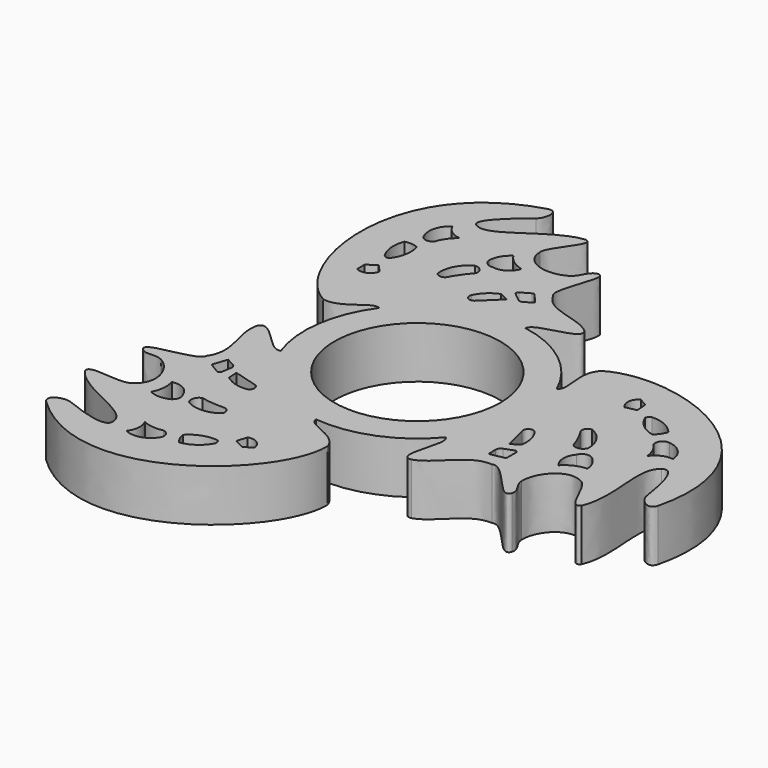
from build123d import *

# Parameters (mm, degrees)
F0_R     = 11.25
F1_DEPTH = 7
F2_COUNT = 3


with BuildPart() as f1:
    # F0 (on Top) → F1 (new body)
    with BuildSketch(Plane.XY):
        with BuildLine():
            ThreePointArc((-11.5915191693, -81.8411684137), (-4.9653695492, -76.6720738607), (3.3929452766, -75.7980197668))
            add(Edge.make_bspline(
                [(8.607827127, -72.3568797112), (10.1731130853, -74.2390751839), (3.4919257741, -74.1648375988), (3.3929452766, -75.7980197668)],
                knots=[0, 0, 0, 0, 6.2479146598, 6.2479146598, 6.2479146598, 6.2479146598], degree=3))
            add(Edge.make_bspline(
                [(1.075717737, -68.2296082377), (2.5268653408, -71.1459293962), (6.3623622991, -70.4283192754), (8.607827127, -72.3568797112)],
                knots=[0, 0, 0, 0, 8.5887741662, 8.5887741662, 8.5887741662, 8.5887741662], degree=3))
            add(Edge.make_bspline(
                [(1.4806623803, -61.3163821399), (3.592874622, -60.8460567892), (-0.3090519167, -67.2556757927), (1.075717737, -68.2296082377)],
                knots=[0, 0, 0, 0, 6.9250758295, 6.9250758295, 6.9250758295, 6.9250758295], degree=3))
            add(Edge.make_bspline(
                [(-0.4505755496, -63.5267719626), (0.5139255663, -62.9156604409), (0.4783272452, -61.6159439087), (1.4806623803, -61.3163821399)],
                knots=[0, 0, 0, 0, 2.935217728, 2.935217728, 2.935217728, 2.935217728], degree=3))
            add(Edge.make_bspline(
                [(-6.2984665856, -61.2256452441), (-6.2529034913, -64.0682913363), (-2.635971643, -64.8614987731), (-0.4505755496, -63.5267719626)],
                knots=[0, 0, 0, 0, 6.2843467237, 6.2843467237, 6.2843467237, 6.2843467237], degree=3))
            add(Edge.make_bspline(
                [(-4.2960937135, -55.9780411422), (-2.5442664046, -56.235473603), (-6.4609842375, -59.7193948925), (-6.2984665856, -61.2256452441)],
                knots=[0, 0, 0, 0, 5.6166578967, 5.6166578967, 5.6166578967, 5.6166578967], degree=3))
            add(Edge.make_bspline(
                [(-15.2463112026, -60.7007145882), (-12.8319403157, -61.9483627379), (-8.47457489, -56.3811324537), (-4.2960937135, -55.9780411422)],
                knots=[0, 0, 0, 0, 11.925221488, 11.925221488, 11.925221488, 11.925221488], degree=3))
            add(Edge.make_bspline(
                [(-11.4679643884, -55.4802492261), (-13.2644530386, -56.8716414273), (-17.0009694993, -60.0266456604), (-15.2463112026, -60.7007145882)],
                knots=[0, 0, 0, 0, 6.4443124726, 6.4443124726, 6.4443124726, 6.4443124726], degree=3))
            add(Edge.make_bspline(
                [(-11.8042081594, -52.9696643353), (-10.3074098006, -52.6897162199), (-10.7033317909, -54.8177957535), (-11.4679643884, -55.4802492261)],
                knots=[0, 0, 0, 0, 2.5330014543, 2.5330014543, 2.5330014543, 2.5330014543], degree=3))
            add(Edge.make_bspline(
                [(-17.5324920565, -83.9646458626), (-25.2240262926, -79.6045064926), (-29.2053744197, -58.0254420638), (-11.8042081594, -52.9696643353)],
                knots=[0, 0, 0, 0, 31.5198685956, 31.5198685956, 31.5198685956, 31.5198685956], degree=3))
            add(Edge.make_bspline(
                [(-11.5915191693, -81.8411684137), (-12.9225384444, -81.1213776469), (-14.913212508, -84.629714489), (-17.5324920565, -83.9646458626)],
                knots=[0, 0, 0, 0, 6.3090661212, 6.3090661212, 6.3090661212, 6.3090661212], degree=3))
        make_face()
        with BuildLine():
            ThreePointArc((-16.770971939, -75.310729444), (-17.6281934132, -76.3875004487), (-19.0040059388, -76.3500258327))
            Line((-19.0040059388, -76.3500258327), (-19.0040059388, -75.0509053469))
            Line((-19.0040059388, -75.0509053469), (-17.7731495351, -74.2219388485))
            Line((-17.7731495351, -74.2219388485), (-16.770971939, -75.310729444))
        make_face(mode=Mode.SUBTRACT)
        with BuildLine():
            ThreePointArc((-17.2145087272, -68.4527680278), (-17.0972083874, -70.4497265983), (-17.9011765867, -72.2814574838))
            ThreePointArc((-17.9011765867, -72.2814574838), (-18.3009233492, -72.3116232623), (-18.6502691358, -72.1149891615))
            ThreePointArc((-18.6502691358, -72.1149891615), (-19.2785622845, -70.2529847207), (-19.0040059388, -68.3071091771))
            ThreePointArc((-19.0040059388, -68.3071091771), (-18.0979216793, -68.2406740087), (-17.2145087272, -68.4527680278))
        make_face(mode=Mode.SUBTRACT)
        with BuildLine():
            ThreePointArc((-11.7061827332, -71.8075484037), (-11.3185383943, -69.5803265663), (-9.7345672548, -67.9673105478))
            ThreePointArc((-9.7345672548, -67.9673105478), (-8.8312017196, -68.2854486549), (-8.5574835539, -69.2032501101))
            ThreePointArc((-8.5574835539, -69.2032501101), (-9.6022364538, -70.5298713613), (-10.4849580675, -71.969397366))
            ThreePointArc((-10.4849580675, -71.969397366), (-11.1338050004, -72.1769704814), (-11.7061827332, -71.8075484037))
        make_face(mode=Mode.SUBTRACT)
        with BuildLine():
            ThreePointArc((-5.807721056, -73.4292119741), (-4.8675890819, -72.1500863778), (-3.5292340908, -71.2963789701))
            Line((-3.5292340908, -71.2963789701), (-2.3015562911, -71.9102174044))
            Line((-2.3015562911, -71.9102174044), (-4.704891704, -74.2303207517))
            ThreePointArc((-4.704891704, -74.2303207517), (-5.5923256914, -74.2923401979), (-5.807721056, -73.4292119741))
        make_face(mode=Mode.SUBTRACT)
        with BuildLine():
            ThreePointArc((-2.3352565161, -70.3172953313), (-2.4410598206, -70.0635949659), (-2.2924339864, -69.8323622346))
            Line((-2.2924339864, -69.8323622346), (-1.0513127153, -69.1277552691))
            ThreePointArc((-1.0513127153, -69.1277552691), (-0.8915696794, -69.0855726619), (-0.7318266435, -69.1277552691))
            Line((-0.7318266435, -69.1277552691), (0.5374675384, -70.5918595195))
            Line((0.5374675384, -70.5918595195), (-0.4710434682, -71.2288102383))
            ThreePointArc((-0.4710434682, -71.2288102383), (-0.8948263862, -71.3367310897), (-1.3011748483, -71.1751148804))
            Line((-1.3011748483, -71.1751148804), (-2.3352565161, -70.3172953313))
        make_face(mode=Mode.SUBTRACT)
        with BuildLine():
            ThreePointArc((-18.2341057807, -65.9766048193), (-18.3792751984, -64.0005162699), (-17.2145087272, -62.3976066709))
            ThreePointArc((-17.2145087272, -62.3976066709), (-16.2975648841, -63.5476810532), (-14.9048101157, -64.0206411481))
            ThreePointArc((-14.9048101157, -64.0206411481), (-15.901141147, -65.0108006893), (-16.5278427303, -66.2679150701))
            ThreePointArc((-16.5278427303, -66.2679150701), (-17.4666862173, -66.6242922382), (-18.2341057807, -65.9766048193))
        make_face(mode=Mode.SUBTRACT)
        with BuildLine():
            ThreePointArc((-9.3450844288, -65.9766048193), (-8.939019094, -64.646381759), (-7.9802833498, -63.6388063431))
            ThreePointArc((-7.9802833498, -63.6388063431), (-6.8834048883, -64.8019788221), (-5.4256548174, -65.4585435987))
            ThreePointArc((-5.4256548174, -65.4585435987), (-6.4299143177, -66.7624524902), (-8.0502731726, -67.0508146286))
            ThreePointArc((-8.0502731726, -67.0508146286), (-8.939148971, -66.8047685952), (-9.3450844288, -65.9766048193))
        make_face(mode=Mode.SUBTRACT)
        with BuildLine():
            ThreePointArc((12.4165252878, -100.6226547849), (15.0676933176, -96.034047707), (15.9884804271, -90.8152204501))
            ThreePointArc((15.9884804271, -90.8152204501), (15.6565574103, -87.6508122715), (14.6752372637, -84.6241535892))
            ThreePointArc((14.6752372637, -84.6241535892), (10.1348796748, -78.8039681766), (3.3929452766, -75.7980197668))
            ThreePointArc((3.3929452766, -75.7980197668), (-4.9328485417, -76.7527122679), (-11.5915191693, -81.8411684137))
            ThreePointArc((-11.5915191693, -81.8411684137), (-14.3617687969, -88.6833261342), (-13.5940292832, -96.0249867986))
            ThreePointArc((-13.5940292832, -96.0249867986), (-8.6579188207, -102.8264727236), (-0.8682768132, -105.9803393475))
            ThreePointArc((-0.8682768132, -105.9803393475), (6.4423304033, -104.9583670395), (12.4165252878, -100.6226547849))
        make_face()
        with Locations((0.7384804271, -90.8152204501)):
            Circle(F0_R, mode=Mode.SUBTRACT)
        with BuildLine():
            ThreePointArc((-11.5915191693, -81.8411684137), (-4.9328485417, -76.7527122679), (3.3929452766, -75.7980197668))
            ThreePointArc((3.3929452766, -75.7980197668), (-4.9653695492, -76.6720738607), (-11.5915191693, -81.8411684137))
        make_face()
    extrude(amount=F1_DEPTH)

    # F2: F1 ×3 about axis
    f2_axis = Axis((0.7384804271, -90.8152204501, 7), (0, 0, 1))


with BuildPart() as f1_1:
    add(f1.part)
    for i in range(1, F2_COUNT):
        add(f1.part.rotate(f2_axis, i * 360 / F2_COUNT))


solid = f1_1.part
